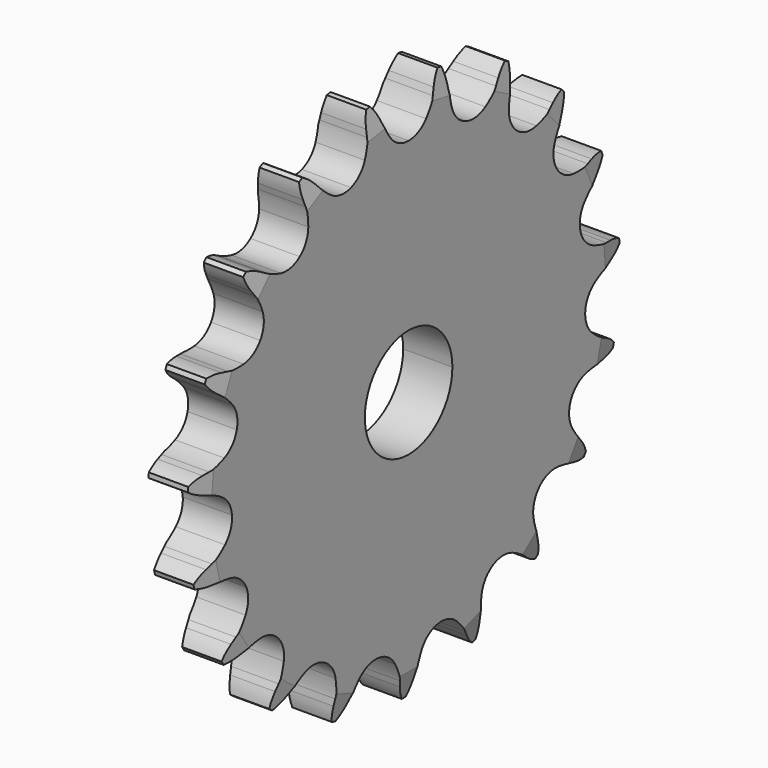
from build123d import *

# Parameters (mm, degrees)
F4_DEPTH = 9
F5_SIZE2 = 4.5
F5_SIZE  = 0.9
F6_COUNT = 19
F6_ANGLE = 341.0526315789
F7_DEPTH = 12.5


with BuildPart() as f4:
    # F3 (on Right) → F4 (new body)
    with BuildSketch(Plane.YZ):
        with BuildLine():
            Line((-3.246994692, 9.458172417), (0, 0))
            Line((0, 0), (0, 10))
            ThreePointArc((0, 10), (-1.6459459028, 9.863613034), (-3.246994692, 9.458172417))
        make_face()
        with BuildLine():
            ThreePointArc((-3.246994692, 9.458172417), (-1.6459459028, 9.863613034), (0, 10))
            Line((0, 10), (0, 40.5034036573))
            ThreePointArc((0, 40.5034036573), (-2.2132444993, 41.0127655888), (-3.9811719031, 42.4383649314))
            ThreePointArc((-3.9811719031, 42.4383649314), (-4.9498033891, 43.8532943389), (-5.7247602858, 45.3829067055))
            Line((-5.7247602858, 45.3829067055), (-6.204236345, 46.5067365206))
            ThreePointArc((-6.204236345, 46.5067365206), (-6.85739864, 47.7382151197), (-7.7081633081, 48.8424614705))
            Line((-7.7081633081, 48.8424614705), (-8.5686075555, 48.6988787206))
            ThreePointArc((-8.5686075555, 48.6988787206), (-9.0147272432, 47.3782206468), (-9.232638956, 46.0013855045))
            Line((-9.232638956, 46.0013855045), (-9.3212287353, 44.7827622667))
            ThreePointArc((-9.3212287353, 44.7827622667), (-9.5575320063, 43.0844004242), (-10.0142535391, 41.4316216655))
            ThreePointArc((-10.0142535391, 41.4316216655), (-11.2234984098, 39.5092201379), (-13.1514336685, 38.3088175266))
            Line((-13.1514336685, 38.3088175266), (-3.246994692, 9.458172417))
        make_face()
        with BuildLine():
            ThreePointArc((-3.246994692, 9.458172417), (-1.6459459028, 9.863613034), (0, 10))
            Line((0, 10), (0, 40.5034036573))
            ThreePointArc((0, 40.5034036573), (-2.2132444993, 41.0127655888), (-3.9811719031, 42.4383649314))
            ThreePointArc((-3.9811719031, 42.4383649314), (-4.9498033891, 43.8532943389), (-5.7247602858, 45.3829067055))
            Line((-5.7247602858, 45.3829067055), (-6.204236345, 46.5067365206))
            ThreePointArc((-6.204236345, 46.5067365206), (-6.85739864, 47.7382151197), (-7.7081633081, 48.8424614705))
            Line((-7.7081633081, 48.8424614705), (-8.5686075555, 48.6988787206))
            ThreePointArc((-8.5686075555, 48.6988787206), (-9.0147272432, 47.3782206468), (-9.232638956, 46.0013855045))
            Line((-9.232638956, 46.0013855045), (-9.3212287353, 44.7827622667))
            ThreePointArc((-9.3212287353, 44.7827622667), (-9.5575320063, 43.0844004242), (-10.0142535391, 41.4316216655))
            ThreePointArc((-10.0142535391, 41.4316216655), (-11.2234984098, 39.5092201379), (-13.1514336685, 38.3088175266))
            Line((-13.1514336685, 38.3088175266), (-3.246994692, 9.458172417))
        make_face()
    extrude(amount=F4_DEPTH)

    # F5
    f5_edges = [f4.edges().sort_by_distance(p)[0] for p in [
        (9, -8.138385, 48.77067),
        (0, -8.138385, 48.77067),
    ]]
    f5_side = f4.faces().sort_by_distance((4.5, -8.138385, 48.77067))[0]
    chamfer(f5_edges, length=F5_SIZE, length2=F5_SIZE2, reference=f5_side)

    # F6: F4 ×19 about axis
    f6_axis = Axis((4.5, 0, 0), (-1, 0, 0))


with BuildPart() as f4_1:
    add(f4.part)
    for i in range(1, F6_COUNT):
        add(f4.part.rotate(f6_axis, i * F6_ANGLE / (F6_COUNT - 1)))

    # F3 (on Right) → F7 (cut, symmetric)
    with BuildSketch(Plane.YZ):
        with BuildLine():
            Line((0, 10), (0, 0))
            Line((0, 0), (-3.246994692, 9.458172417))
            ThreePointArc((-3.246994692, 9.458172417), (-5.810768154, -8.1384871727), (10, 0))
            ThreePointArc((10, 0), (7.0710678119, 7.0710678119), (0, 10))
        make_face()
        with BuildLine():
            Line((-3.246994692, 9.458172417), (0, 0))
            Line((0, 0), (0, 10))
            ThreePointArc((0, 10), (-1.6459459028, 9.863613034), (-3.246994692, 9.458172417))
        make_face()
    extrude(amount=F7_DEPTH, both=True, mode=Mode.SUBTRACT)


solid = f4_1.part
